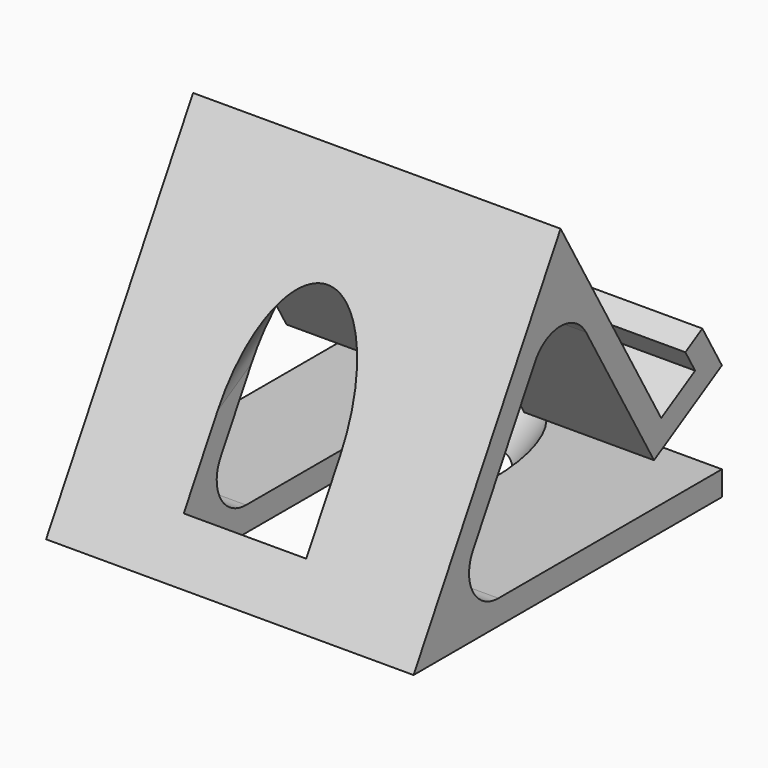
from build123d import *

# Parameters (mm, degrees)
PAD_DEPTH    = 75
POCKET_DEPTH = 70


with BuildPart() as part:
    # Sketch → Pad (new body)
    with BuildSketch(Plane.YZ):
        with BuildLine():
            Line((0, 0), (37.5, 64.951905))
            Line((37.5, 64.951905), (63.169873, 20.490381))
            Line((71.830127, 25.490381), (63.169873, 20.490381))
            Line((69.330127, 29.820508), (71.830127, 25.490381))
            Line((73.660254, 32.320508), (69.330127, 29.820508))
            Line((78.660254, 23.660254), (73.660254, 32.320508))
            Line((61.339746, 13.660254), (78.660254, 23.660254))
            Line((43.995191, 43.701905), (61.339746, 13.660254))
            ThreePointArc((43.995191, 43.701905), (37.5, 47.451905), (31.004809, 43.701905))
            Line((15.155445, 16.25), (31.004809, 43.701905))
            ThreePointArc((15.155445, 16.25), (15.155445, 8.75), (21.650635, 5))
            Line((21.650635, 5), (66.339746, 5))
            Line((66.339746, 5), (78.660254, 5))
            Line((78.660254, 5), (78.660254, 0))
            Line((0, 0), (78.660254, 0))
        make_face()
    extrude(amount=PAD_DEPTH)

    # Sketch001 (on DatumPlane) → Pocket (cut)
    with BuildSketch(Plane(origin=(0, 69.240381, 39.975953), x_dir=(0, -0.5, 0.866025), z_dir=(0, 0.866025, 0.5))):
        with BuildLine():
            ThreePointArc((14.354353, 23.5), (26.854353, 36), (14.354353, 48.5))
            Line((14.354353, 48.5), (-22.231963, 48.5))
            ThreePointArc((-22.231963, 48.5), (-34.731963, 36), (-22.231963, 23.5))
            Line((-22.231963, 23.5), (14.354353, 23.5))
        make_face()
    extrude(amount=-POCKET_DEPTH, mode=Mode.SUBTRACT)


solid = part.part
